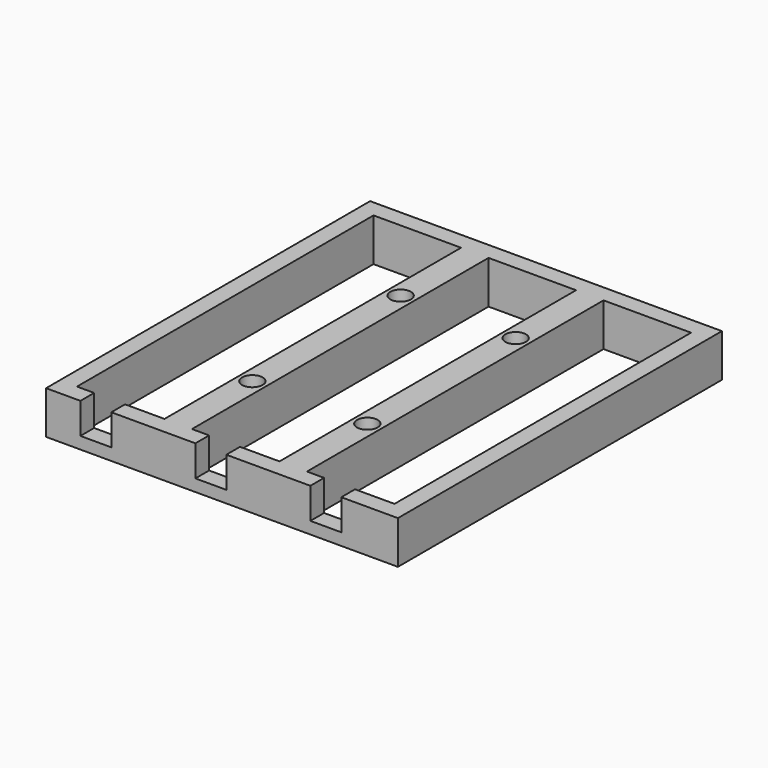
from build123d import *

# Parameters (mm, degrees)
F0_W     = 205
F0_H     = 236
F0_R     = 2.25
F0_W_2   = 51
F0_H_2   = 216
F1_DEPTH = 25
F2_W     = 18
F2_H     = 18
F3_DEPTH = 10
F4_R     = 6
F5_DEPTH = 23


with BuildPart() as f1:
    # F0 (on Top) → F1 (new body)
    with BuildSketch(Plane.XY):
        Rectangle(F0_W, F0_H)
        with Locations((-33.5, -54)):
            Circle(F0_R, mode=Mode.SUBTRACT)
        with Locations((33.5, -54)):
            Circle(F0_R, mode=Mode.SUBTRACT)
        with Locations((-67, 0)):
            Rectangle(F0_W_2, F0_H_2, mode=Mode.SUBTRACT)
        with Locations((-33.5, 54)):
            Circle(F0_R, mode=Mode.SUBTRACT)
        Rectangle(F0_W_2, F0_H_2, mode=Mode.SUBTRACT)
        with Locations((33.5, 54)):
            Circle(F0_R, mode=Mode.SUBTRACT)
        with Locations((67, 0)):
            Rectangle(F0_W_2, F0_H_2, mode=Mode.SUBTRACT)
    extrude(amount=F1_DEPTH)

    # F2 (on face) → F3 (cut, through all)
    with BuildSketch(Plane.XZ.offset(118)):
        with Locations((-73.5, 16)):
            Rectangle(F2_W, F2_H)
        with Locations((-6.5, 16)):
            Rectangle(F2_W, F2_H)
        with Locations((60.5, 16)):
            Rectangle(F2_W, F2_H)
    extrude(amount=-F3_DEPTH, mode=Mode.SUBTRACT)

    # F4 (on face) → F5 (cut)
    with BuildSketch(Plane.XY.offset(25)):
        with Locations((-33.5, 54)):
            Circle(F4_R)
        with Locations((-33.5, -54)):
            Circle(F4_R)
        with Locations((33.5, 54)):
            Circle(F4_R)
        with Locations((33.5, -54)):
            Circle(F4_R)
    extrude(amount=-F5_DEPTH, mode=Mode.SUBTRACT)


solid = f1.part
